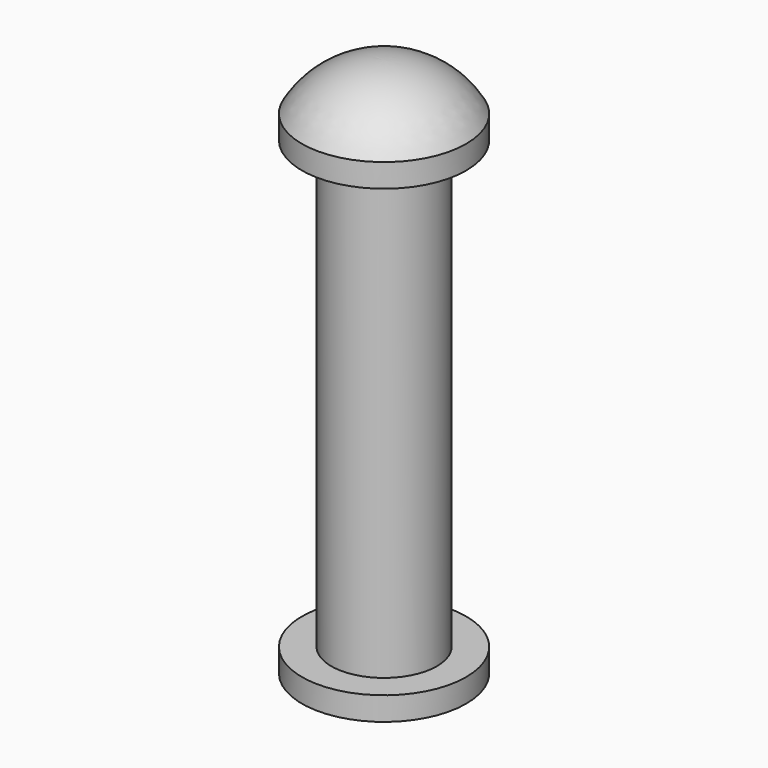
from build123d import *

# Parameters (mm, degrees)
F0_R     = 2.25
F1_DEPTH = 20
F2_R     = 3.5
F3_DEPTH = 1
F4_R     = 3.5
F5_DEPTH = 1


with BuildPart() as f1:
    # F0 (on Top) → F1 (new body)
    with BuildSketch(Plane.XY):
        Circle(F0_R)
    extrude(amount=F1_DEPTH)

    # F2 (on face) → F3 (join)
    with BuildSketch(Plane(origin=(0, 0, 0), x_dir=(1, 0, 0), z_dir=(0, 0, -1))):
        Circle(F2_R)
    extrude(amount=-F3_DEPTH)

    # F4 (on face) → F5 (join)
    with BuildSketch(Plane.XY.offset(20)):
        Circle(F4_R)
    extrude(amount=F5_DEPTH)

    # F6 (on Front) → F7 (revolve)
    with BuildSketch(Plane.XZ):
        with BuildLine():
            Line((0, 20.991329), (0, 23))
            ThreePointArc((0, 23), (-2.022616, 22.477079), (-3.5, 21))
            Line((-3.5, 21), (0, 20.991329))
        make_face()
    revolve(axis=Axis((0, 0, 11.212396), (0, 0, 1)))


solid = f1.part
